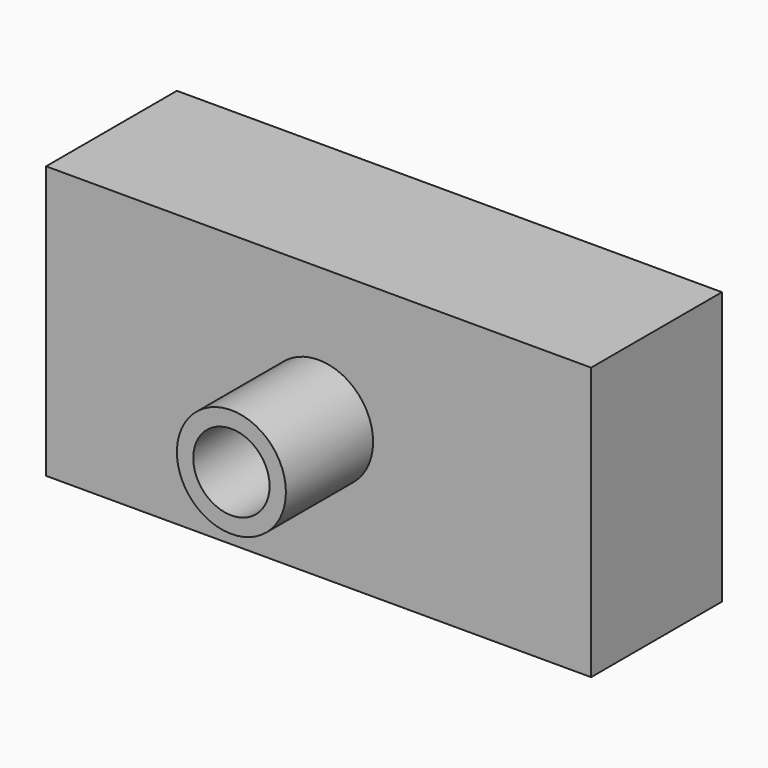
from build123d import *

# Parameters (mm, degrees)
F0_W     = 254
F0_H     = 127
F1_DEPTH = 76.2
F2_W     = 25.4
F2_H     = 50.8
F4_T     = -7.62


with BuildPart() as f1:
    # F0 (on Front) → F1 (new body)
    with BuildSketch(Plane.XZ):
        Rectangle(F0_W, F0_H)
    extrude(amount=F1_DEPTH)

    # F2 (on Top) → F3 (revolve)
    with BuildSketch(Plane.XY):
        with Locations((12.7, -101.6)):
            Rectangle(F2_W, F2_H)
    revolve(axis=Axis((0, -101.6, 0), (0, 1, 0)))

    # F4
    f4_openings = [f1.faces().sort_by_distance(p)[0] for p in [
        (0, -127, 0),
        (0, -38.1, -63.5),
    ]]
    offset(amount=F4_T, openings=f4_openings, kind=Kind.INTERSECTION)


solid = f1.part
